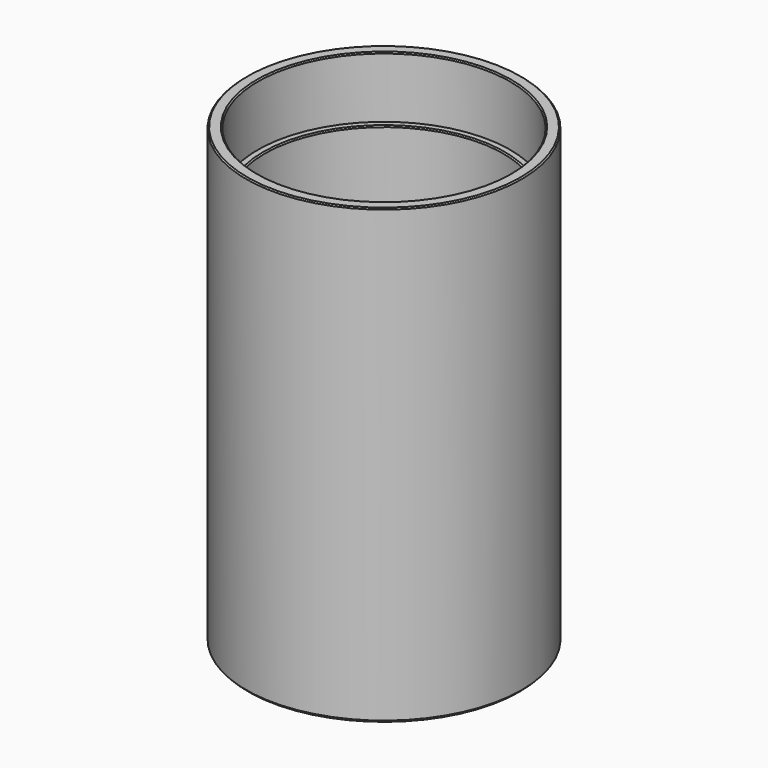
from build123d import *

# Parameters (mm, degrees)
F0_R     = 11.25
F1_DEPTH = 37
F2_R     = 9.75
F3_DEPTH = 35
F4_R     = 10.3
F5_DEPTH = 5
F6_SIZE  = 0.1
F7_SIZE  = 0.2


with BuildPart() as f1:
    # F0 (on Top) → F1 (new body)
    with BuildSketch(Plane.XY):
        Circle(F0_R)
    extrude(amount=F1_DEPTH)

    # F2 (on face) → F3 (cut)
    with BuildSketch(Plane.XY.offset(37)):
        Circle(F2_R)
    extrude(amount=-F3_DEPTH, mode=Mode.SUBTRACT)

    # F4 (on face) → F5 (cut)
    with BuildSketch(Plane.XY.offset(37)):
        Circle(F4_R)
    extrude(amount=-F5_DEPTH, mode=Mode.SUBTRACT)

    # F6
    f6_edges = [f1.edges().sort_by_distance(p)[0] for p in [
        (-10.3, 0, 37),
        (-11.25, 0, 37),
        (-9.75, 0, 32),
    ]]
    chamfer(f6_edges, length=F6_SIZE)

    # F7
    f7_edges = [f1.edges().sort_by_distance(p)[0] for p in [
        (-11.25, 0, 0),
    ]]
    chamfer(f7_edges, length=F7_SIZE)


solid = f1.part
